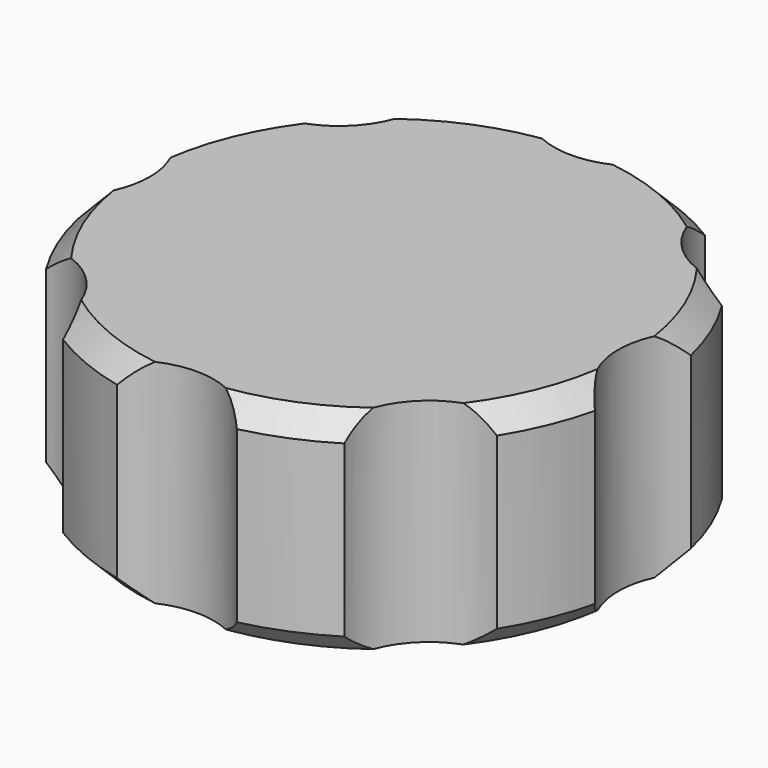
from build123d import *

# Parameters (mm, degrees)
F1_DEPTH = 10
F2_DEPTH = 8
F3_SIZE  = 1


with BuildPart() as f1:
    # F0 (on Top) → F1 (new body)
    with BuildSketch(Plane.XY):
        with BuildLine():
            ThreePointArc((12.1776870536, -2.8202726863), (11.0142451748, 0), (12.1776870536, 2.8202726863))
            ThreePointArc((12.1776870536, 2.8202726863), (11.5484941564, 4.7835429046), (10.605159036, 6.6166911535))
            ThreePointArc((10.605159036, 6.6166911535), (7.7882474528, 7.7882474528), (6.6166911535, 10.605159036))
            ThreePointArc((6.6166911535, 10.605159036), (4.7835429046, 11.5484941564), (2.8202726863, 12.1776870536))
            ThreePointArc((2.8202726863, 12.1776870536), (0, 11.0142451748), (-2.8202726863, 12.1776870536))
            ThreePointArc((-2.8202726863, 12.1776870536), (-4.7835429046, 11.5484941564), (-6.6166911535, 10.605159036))
            ThreePointArc((-6.6166911535, 10.605159036), (-7.7882474528, 7.7882474528), (-10.605159036, 6.6166911535))
            ThreePointArc((-10.605159036, 6.6166911535), (-11.5484941564, 4.7835429046), (-12.1776870536, 2.8202726863))
            ThreePointArc((-12.1776870536, 2.8202726863), (-11.3165274676, 1.5254126516), (-11.0142451748, 0))
            ThreePointArc((-11.0142451748, 0), (-11.3165274676, -1.5254126516), (-12.1776870536, -2.8202726863))
            ThreePointArc((-12.1776870536, -2.8202726863), (-11.5484941564, -4.7835429046), (-10.605159036, -6.6166911535))
            ThreePointArc((-10.605159036, -6.6166911535), (-7.7882474528, -7.7882474528), (-6.6166911535, -10.605159036))
            ThreePointArc((-6.6166911535, -10.605159036), (-4.7835429046, -11.5484941564), (-2.8202726863, -12.1776870536))
            ThreePointArc((-2.8202726863, -12.1776870536), (0, -11.0142451748), (2.8202726863, -12.1776870536))
            ThreePointArc((2.8202726863, -12.1776870536), (4.7835429046, -11.5484941564), (6.6166911535, -10.605159036))
            ThreePointArc((6.6166911535, -10.605159036), (7.7882474528, -7.7882474528), (10.605159036, -6.6166911535))
            ThreePointArc((10.605159036, -6.6166911535), (11.5484941564, -4.7835429046), (12.1776870536, -2.8202726863))
        make_face()
        Polygon((6.2885942892, 3.6569908211), (6.3113440971, -3.617586998), (0.0227498078, -7.2745778191), (-6.2885942892, -3.6569908211), (-6.3113440971, 3.617586998), (-0.0227498078, 7.2745778191), align=None, mode=Mode.SUBTRACT)
        Polygon((0.0227498078, -7.2745778191), (6.3113440971, -3.617586998), (6.2885942892, 3.6569908211), (-0.0227498078, 7.2745778191), (-6.3113440971, 3.617586998), (-6.2885942892, -3.6569908211), align=None)
    extrude(amount=F1_DEPTH)

    # F0 (on Top) → F2 (cut)
    with BuildSketch(Plane.XY):
        Polygon((0.0227498078, -7.2745778191), (6.3113440971, -3.617586998), (6.2885942892, 3.6569908211), (-0.0227498078, 7.2745778191), (-6.3113440971, 3.617586998), (-6.2885942892, -3.6569908211), align=None)
    extrude(amount=F2_DEPTH, mode=Mode.SUBTRACT)

    # F3
    f3_edges = [f1.edges().sort_by_distance(p)[0] for p in [
        (11.548494, -4.783543, 10),
        (11.548494, 4.783543, 10),
        (4.783543, 11.548494, 10),
        (-4.783543, 11.548494, 10),
        (-11.548494, 4.783543, 10),
        (-11.548494, -4.783543, 10),
        (-4.783543, -11.548494, 10),
        (4.783543, -11.548494, 10),
        (4.783543, -11.548494, 0),
        (11.548494, -4.783543, 0),
        (11.548494, 4.783543, 0),
        (4.783543, 11.548494, 0),
        (-4.783543, 11.548494, 0),
        (-11.548494, 4.783543, 0),
        (-11.548494, -4.783543, 0),
        (-4.783543, -11.548494, 0),
    ]]
    chamfer(f3_edges, length=F3_SIZE)


solid = f1.part
